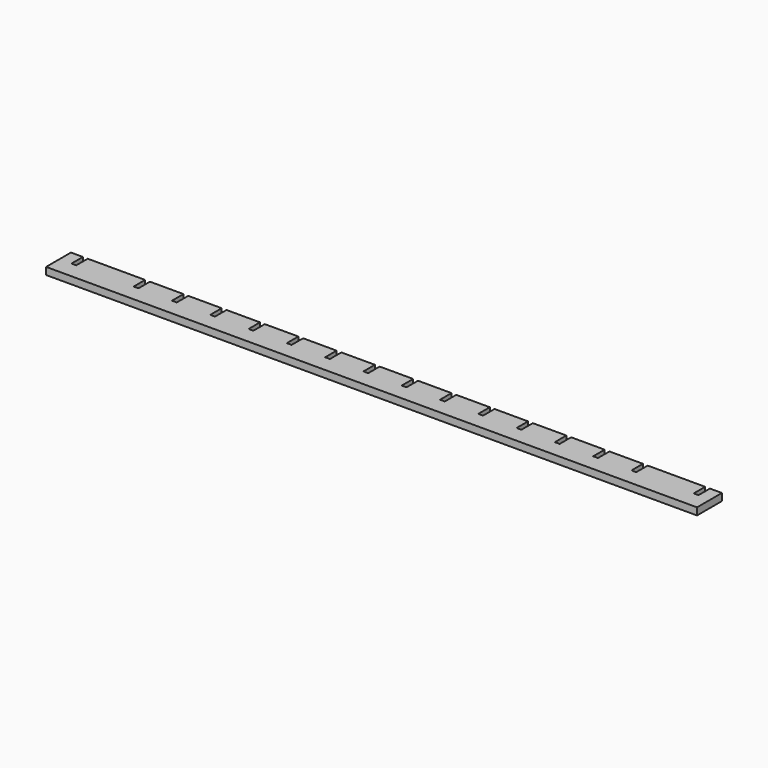
from build123d import *

# Parameters (mm, degrees)
F1_DEPTH = 3


with BuildPart() as f1:
    # F0 (on Top) → F1 (new body)
    with BuildSketch(Plane.XY):
        Polygon((-184.770775, 23.413033), (-189.770775, 23.413033), (-189.770775, 10.413033), (82.229225, 10.413033), (82.229225, 23.413033), (77.229225, 23.413033), (77.229225, 17.413033), (75.229225, 17.413033), (75.229225, 23.413033), (51.229225, 23.413033), (51.229225, 17.413033), (49.229225, 17.413033), (49.229225, 23.413033), (35.229225, 23.413033), (35.229225, 17.413033), (33.229225, 17.413033), (33.229225, 23.413033), (19.229225, 23.413033), (19.229225, 17.413033), (17.229225, 17.413033), (17.229225, 23.413033), (3.229225, 23.413033), (3.229225, 17.413033), (1.229225, 17.413033), (1.229225, 23.413033), (-12.770775, 23.413033), (-12.770775, 17.413033), (-14.770775, 17.413033), (-14.770775, 23.413033), (-28.770775, 23.413033), (-28.770775, 17.413033), (-30.770775, 17.413033), (-30.770775, 23.413033), (-44.770775, 23.413033), (-44.770775, 17.413033), (-46.770775, 17.413033), (-46.770775, 23.413033), (-60.770775, 23.413033), (-60.770775, 17.413033), (-62.770775, 17.413033), (-62.770775, 23.413033), (-76.770775, 23.413033), (-76.770775, 17.413033), (-78.770775, 17.413033), (-78.770775, 23.413033), (-92.770775, 23.413033), (-92.770775, 17.413033), (-94.770775, 17.413033), (-94.770775, 23.413033), (-108.770775, 23.413033), (-108.770775, 17.413033), (-110.770775, 17.413033), (-110.770775, 23.413033), (-124.770775, 23.413033), (-124.770775, 17.413033), (-126.770775, 17.413033), (-126.770775, 23.413033), (-140.770775, 23.413033), (-140.770775, 17.413033), (-142.770775, 17.413033), (-142.770775, 23.413033), (-156.770775, 23.413033), (-156.770775, 17.413033), (-158.770775, 17.413033), (-158.770775, 23.413033), (-182.770775, 23.413033), (-182.770775, 17.413033), (-184.770775, 17.413033), align=None)
    extrude(amount=F1_DEPTH)


solid = f1.part
